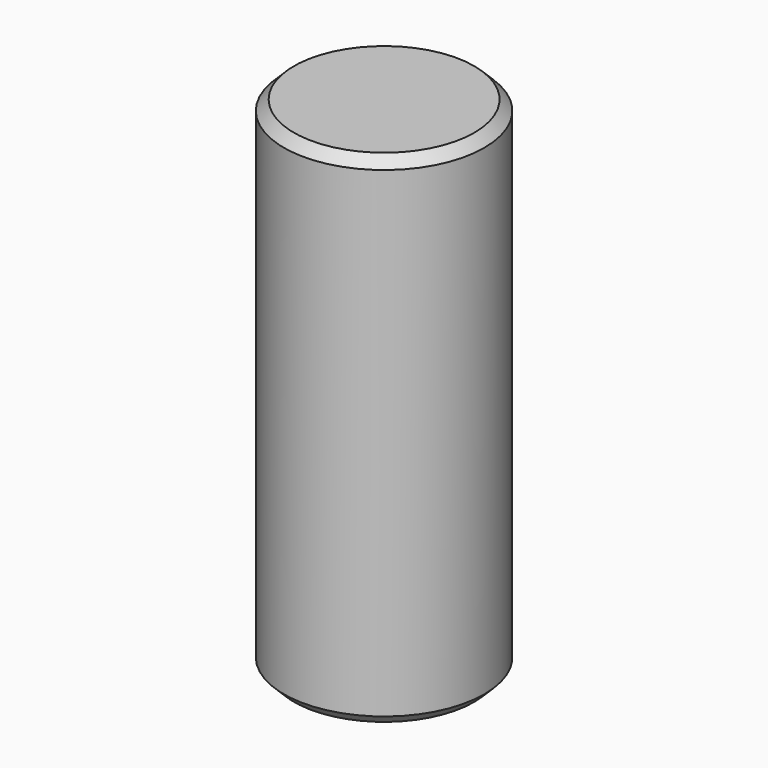
from build123d import *

# Parameters (mm, degrees)
SKETCH_R     = 4
PAD_DEPTH    = 10
CHAMFER_SIZE = 0.4


with BuildPart() as part:
    # Sketch → Pad (new body, symmetric)
    with BuildSketch(Plane.XY):
        Circle(SKETCH_R)
    extrude(amount=PAD_DEPTH, both=True)

    # Chamfer
    chamfer_edges = [part.edges().sort_by_distance(p)[0] for p in [
        (-4, 0, -10),
        (-4, 0, 10),
    ]]
    chamfer(chamfer_edges, length=CHAMFER_SIZE)


solid = part.part
